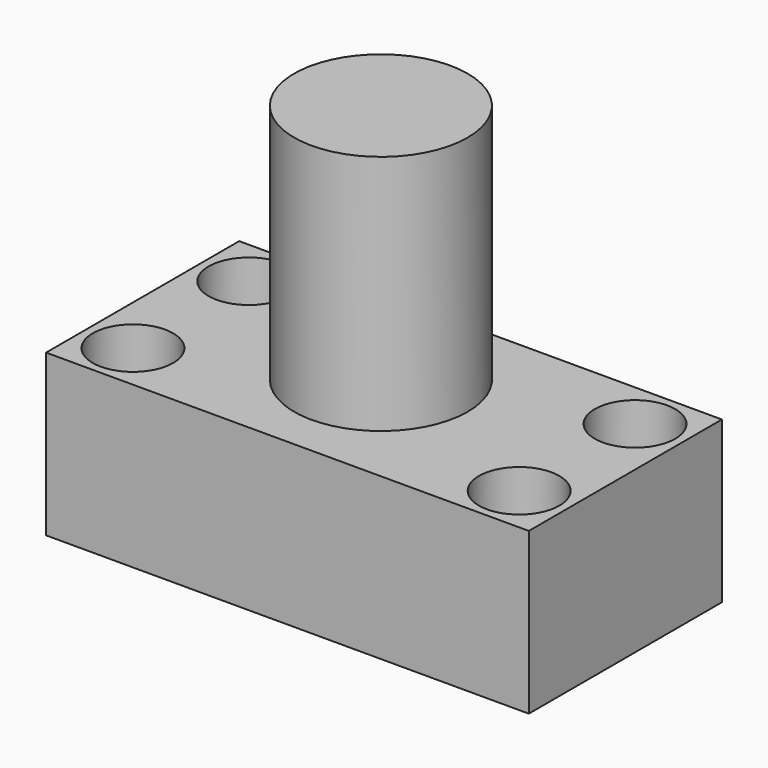
from build123d import *

# Parameters (mm, degrees)
F0_W      = 76.2
F0_H      = 38.1
F1_DEPTH  = 25.4
F2_R      = 6.35
F3_DEPTH  = 25.4
F4_R      = 6.35
F5_DEPTH  = 25.4
F6_R      = 6.35
F7_DEPTH  = 25.4
F8_R      = 6.35
F9_DEPTH  = 25.4
F10_R     = 13.692048
F11_DEPTH = 38.1
F12_W     = 12.7
F12_H     = 12.7


with BuildPart() as f1:
    # F0 (on Top) → F1 (new body)
    with BuildSketch(Plane.XY):
        with Locations((-8.536067, -11.700657)):
            Rectangle(F0_W, F0_H)
    extrude(amount=F1_DEPTH)

    # F2 (on Top) → F3 (cut)
    with BuildSketch(Plane.XY):
        with Locations((-39.016067, -0.270657)):
            Circle(F2_R)
    extrude(amount=F3_DEPTH, mode=Mode.SUBTRACT)

    # F4 (on Top) → F5 (cut)
    with BuildSketch(Plane.XY):
        with Locations((21.943933, -0.270657)):
            Circle(F4_R)
    extrude(amount=F5_DEPTH, mode=Mode.SUBTRACT)

    # F6 (on Top) → F7 (cut)
    with BuildSketch(Plane.XY):
        with Locations((-39.016067, -23.130657)):
            Circle(F6_R)
    extrude(amount=F7_DEPTH, mode=Mode.SUBTRACT)

    # F8 (on Top) → F9 (cut)
    with BuildSketch(Plane.XY):
        with Locations((21.943933, -23.130657)):
            Circle(F8_R)
    extrude(amount=F9_DEPTH, mode=Mode.SUBTRACT)

    # F10 (on face) → F11 (join)
    with BuildSketch(Plane.XY.offset(25.4)):
        with Locations((-9.878693, -10.635504)):
            Circle(F10_R)
    extrude(amount=F11_DEPTH)

    # F12 (on Front) → F13 (revolve, cut)
    with BuildSketch(Plane.XZ):
        with Locations((-25.066885, 39.424001)):
            Rectangle(F12_W, F12_H)
    revolve(axis=Axis((-9.878693, -10.635504, 63.5), (0, 0, 1)), mode=Mode.SUBTRACT)


solid = f1.part
